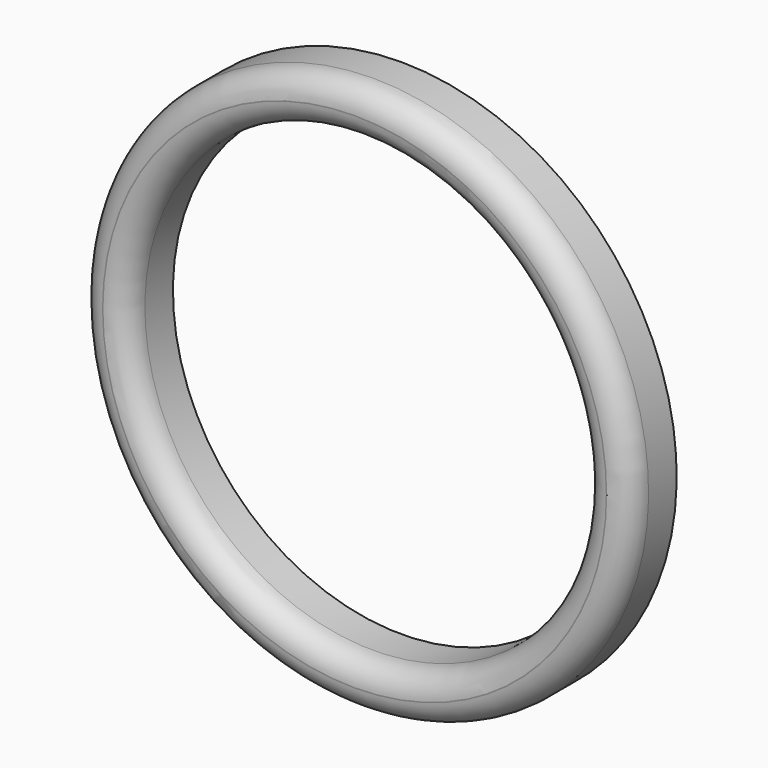
from build123d import *


with BuildPart() as f1:
    # F0 (on Right) → F1 (revolve)
    with BuildSketch(Plane.YZ):
        with BuildLine():
            Line((-3.55, 23.1), (0, 23.1))
            Line((0, 23.1), (0, 27.85))
            Line((0, 27.85), (-3.55, 27.85))
            ThreePointArc((-3.55, 27.85), (-5.211701, 27.161701), (-5.9, 25.5))
            Line((-5.9, 25.5), (-5.9, 25.45))
            ThreePointArc((-5.9, 25.45), (-5.211701, 23.788299), (-3.55, 23.1))
        make_face()
    revolve(axis=Axis((0, -17.209843, 0), (0, -1, 0)))


solid = f1.part
